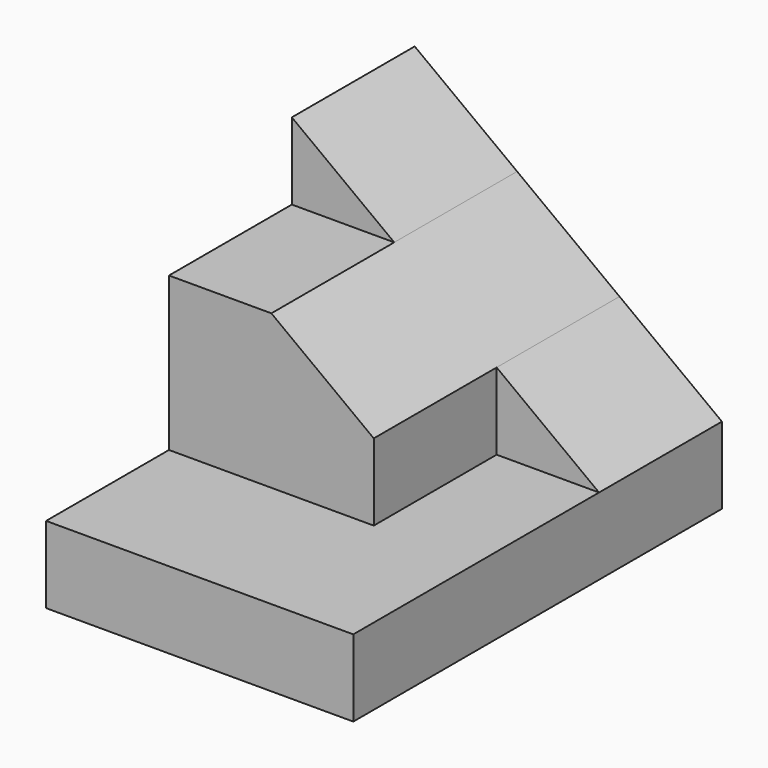
from build123d import *

# Parameters (mm, degrees)
F2_DEPTH = 25.4
F3_DEPTH = 25.4
F4_DEPTH = 38.101
F0_W     = 16.933333
F0_H     = 6.35
F5_DEPTH = 25.4


with BuildPart() as f2:
    # F1 (on Right) → F2 (new body)
    with BuildSketch(Plane.YZ):
        Polygon((-38.1, 0), (0, 0), (0, 6.35), (-12.7, 6.35), (-25.4, 6.35), (-38.1, 6.35), align=None)
    extrude(amount=F2_DEPTH)

    # F1 (on Right) → F3 (join)
    with BuildSketch(Plane.YZ):
        Polygon((-12.7, 6.35), (0, 6.35), (0, 25.4), (-12.7, 25.4), (-12.7, 19.05), (-25.4, 19.05), (-25.4, 12.7), (-12.7, 12.7), align=None)
    extrude(amount=F3_DEPTH)

    # F0 (on Front) → F4 (cut, through all)
    with BuildSketch(Plane.XZ):
        Polygon((16.933333, 12.7), (25.4, 6.35), (25.4, 25.4), (0, 25.4), (8.466667, 19.05), align=None)
    extrude(amount=F4_DEPTH, mode=Mode.SUBTRACT)

    # F0 (on Front) → F5 (join)
    with BuildSketch(Plane.XZ):
        with Locations((8.466666, 9.525)):
            Rectangle(F0_W, F0_H)
    extrude(amount=F5_DEPTH)


solid = f2.part
